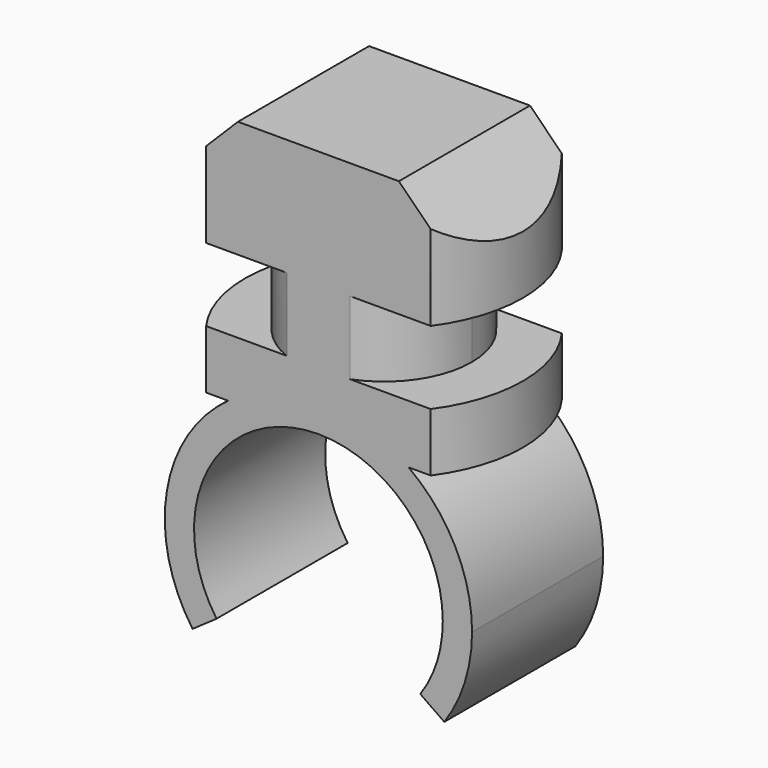
from build123d import *

# Parameters (mm, degrees)
F1_DEPTH = 4
F3_DEPTH = 2.5
F5_DEPTH = 2
F7_DEPTH = 5.6
F9_DEPTH = 25


with BuildPart() as f1:
    # F0 (on Top) → F1 (new body)
    with BuildSketch(Plane.XY):
        with BuildLine():
            Line((3.8369910086, 2.8), (-3.8369910086, 2.8))
            ThreePointArc((-3.8369910086, 2.8), (-4.75, 0), (-3.8369910086, -2.8))
            Line((-3.8369910086, -2.8), (3.8369910086, -2.8))
            ThreePointArc((3.8369910086, -2.8), (4.75, 0), (3.8369910086, 2.8))
        make_face()
    extrude(amount=F1_DEPTH)

    # F2 (on face) → F3 (join)
    with BuildSketch(Plane(origin=(0, 0, 0), x_dir=(1, 0, 0), z_dir=(0, 0, -1))):
        with BuildLine():
            ThreePointArc((1.0770329614, -2.8), (2.4729636961, -1.6983670268), (3, 0))
            ThreePointArc((3, 0), (2.4729636961, 1.6983670268), (1.0770329614, 2.8))
            Line((1.0770329614, 2.8), (-1.0770329614, 2.8))
            ThreePointArc((-1.0770329614, 2.8), (-3, 0), (-1.0770329614, -2.8))
            Line((-1.0770329614, -2.8), (1.0770329614, -2.8))
        make_face()
    extrude(amount=F3_DEPTH)

    # F4 (on face) → F5 (join)
    with BuildSketch(Plane(origin=(0, 0, -2.5), x_dir=(1, 0, 0), z_dir=(0, 0, -1))):
        with BuildLine():
            ThreePointArc((3.8369910086, -2.8), (4.75, 0), (3.8369910086, 2.8))
            Line((3.8369910086, 2.8), (1.0770329614, 2.8))
            Line((1.0770329614, 2.8), (-1.0770329614, 2.8))
            Line((-1.0770329614, 2.8), (-3.8369910086, 2.8))
            ThreePointArc((-3.8369910086, 2.8), (-4.75, 0), (-3.8369910086, -2.8))
            Line((-3.8369910086, -2.8), (-1.0770329614, -2.8))
            Line((-1.0770329614, -2.8), (1.0770329614, -2.8))
            Line((1.0770329614, -2.8), (3.8369910086, -2.8))
        make_face()
    extrude(amount=F5_DEPTH)

    # F6 (on face) → F7 (join)
    with BuildSketch(Plane.XZ.offset(2.8)):
        with BuildLine():
            ThreePointArc((0, -4.5), (3.00520382, -5.74479618), (4.25, -8.75))
            ThreePointArc((4.25, -8.75), (4.0532970407, -10.0279996479), (3.4813961882, -11.1876998545))
            Line((3.4813961882, -11.1876998545), (4.3005482325, -11.7612762908))
            ThreePointArc((4.3005482325, -11.7612762908), (5.0070139914, -10.3287054474), (5.25, -8.75))
            ThreePointArc((5.25, -8.75), (4.6767556467, -6.3645322008), (3.0822070015, -4.5))
            Line((3.0822070015, -4.5), (0, -4.5))
        make_face()
        with BuildLine():
            ThreePointArc((-3.4813961882, -11.1876998545), (-3.769796041, -6.7875683938), (0, -4.5))
            Line((0, -4.5), (-3.0822070015, -4.5))
            ThreePointArc((-3.0822070015, -4.5), (-5.1776251365, -7.8812664702), (-4.3005482325, -11.7612762908))
            Line((-4.3005482325, -11.7612762908), (-3.4813961882, -11.1876998545))
        make_face()
    extrude(amount=-F7_DEPTH)

    # F8 (on face) → F9 (cut)
    with BuildSketch(Plane(origin=(0, 2.8, 0), x_dir=(-1, 0, 0), z_dir=(0, 1, 0))):
        Polygon((4.75, 2), (4.75, 4), (3.8369910086, 4), (3.8369910086, 2.9130089914), align=None)
        Polygon((3.8369910086, 2.9130089914), (3.8369910086, 4), (2.75, 4), align=None)
        Polygon((-3.8369910086, 2.9130089914), (-2.75, 4), (-3.8369910086, 4), align=None)
        Polygon((-3.8369910086, 2.9130089914), (-3.8369910086, 4), (-4.75, 4), (-4.75, 2), align=None)
    extrude(amount=-F9_DEPTH, mode=Mode.SUBTRACT)


solid = f1.part
